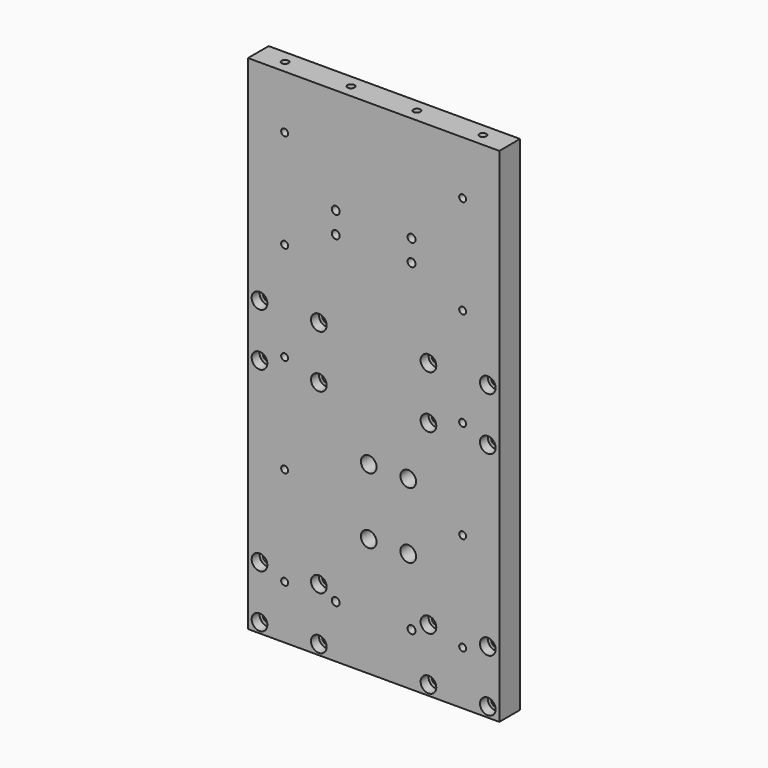
from build123d import *

# Parameters (mm, degrees)
SKETCH_W             = 152.5
SKETCH_H             = 305
PAD_DEPTH            = 15.7
SKETCH001_R          = 2.1
POCKET_DEPTH         = 682.724194
POCKET_DEPTH_BACK    = 698.424194
SKETCH002_R          = 2.4
POCKET001_DEPTH      = 0.001
POCKET001_DEPTH_BACK = 15.701
HOLE003_D            = 5.5
HOLE003_CBORE_D      = 9.5
HOLE003_CBORE_DEPTH  = 6
SKETCH011_R          = 2.1
POCKET002_DEPTH      = 15
HOLE004_D            = 5.5
HOLE004_CBORE_D      = 9.5
HOLE004_CBORE_DEPTH  = 9
SKETCH014_R          = 2.5
POCKET004_DEPTH      = 30


with BuildPart() as part:
    # Sketch → Pad (new body)
    with BuildSketch(Plane.XZ):
        Rectangle(SKETCH_W, SKETCH_H)
    extrude(amount=PAD_DEPTH)

    # Sketch001 → Pocket (cut, two sides)
    with BuildSketch(Plane.XZ) as pocket_sk:
        with Locations((-54, 0)):
            Circle(SKETCH001_R)
        with Locations((-54, 60)):
            Circle(SKETCH001_R)
        with Locations((-54, 120)):
            Circle(SKETCH001_R)
        with Locations((-54, -60)):
            Circle(SKETCH001_R)
        with Locations((-54, -120)):
            Circle(SKETCH001_R)
    pocket = extrude(amount=-POCKET_DEPTH, mode=Mode.SUBTRACT) + extrude(pocket_sk.sketch, amount=POCKET_DEPTH_BACK, mode=Mode.SUBTRACT)

    # Mirrored: Pocket across Sketch001 V_Axis
    add(pocket.mirror(Plane(origin=(0, 0, 0), x_dir=(0, -1, 0), z_dir=(1, 0, 0))), mode=Mode.SUBTRACT)

    # Sketch002 → Pocket001 (cut, two sides)
    with BuildSketch(Plane.XZ) as pocket001_sk:
        with Locations((-23, -120.525)):
            Circle(SKETCH002_R)
        with Locations((23, -120.525)):
            Circle(SKETCH002_R)
        with Locations((-23, 88.475)):
            Circle(SKETCH002_R)
        with Locations((-23, 75.475)):
            Circle(SKETCH002_R)
        with Locations((23, 88.475)):
            Circle(SKETCH002_R)
        with Locations((23, 75.475)):
            Circle(SKETCH002_R)
    extrude(amount=-POCKET001_DEPTH, mode=Mode.SUBTRACT)
    extrude(pocket001_sk.sketch, amount=POCKET001_DEPTH_BACK, mode=Mode.SUBTRACT)

    # Hole003 (through all)
    with Locations(Plane.XZ.offset(15.7)):
        with Locations((-69.25, -146.5), (-69.25, -114.5), (-33.25, -114.5), (-33.25, -146.5), (33.25, -114.5), (69.25, -114.5), (33.25, -146.5), (69.25, -146.5), (-69.25, -6.8), (-69.25, 25.2), (-33.25, -6.8), (-33.25, 25.2), (33.25, -6.8), (33.25, 25.2), (69.25, -6.8), (69.25, 25.2)):
            CounterBoreHole(HOLE003_D / 2, HOLE003_CBORE_D / 2, HOLE003_CBORE_DEPTH)

    # Sketch011 (on Face1 of Hole003) → Pocket002 (cut)
    with BuildSketch(Plane(origin=(0, 0, 152.5), x_dir=(-1, 0, 0), z_dir=(0, 0, 1))):
        with Locations((-60, 7.85)):
            Circle(SKETCH011_R)
        with Locations((-20, 7.85)):
            Circle(SKETCH011_R)
        with Locations((20, 7.85)):
            Circle(SKETCH011_R)
        with Locations((60, 7.85)):
            Circle(SKETCH011_R)
    extrude(amount=-POCKET002_DEPTH, mode=Mode.SUBTRACT)

    # Hole004 (through all)
    with Locations(Plane.XZ.offset(15.7)):
        with Locations((-3, -40.65), (21, -40.65), (-3, -80.65), (21, -80.65)):
            CounterBoreHole(HOLE004_D / 2, HOLE004_CBORE_D / 2, HOLE004_CBORE_DEPTH)

    # Sketch014 (on Face2 of Hole004) → Pocket004 (cut)
    with BuildSketch(Plane(origin=(-76.25, 0, 0), x_dir=(0, 0, -1), z_dir=(-1, 0, 0))):
        with Locations((26.5, 7.85)):
            Circle(SKETCH014_R)
    extrude(amount=-POCKET004_DEPTH, mode=Mode.SUBTRACT)


solid = part.part
